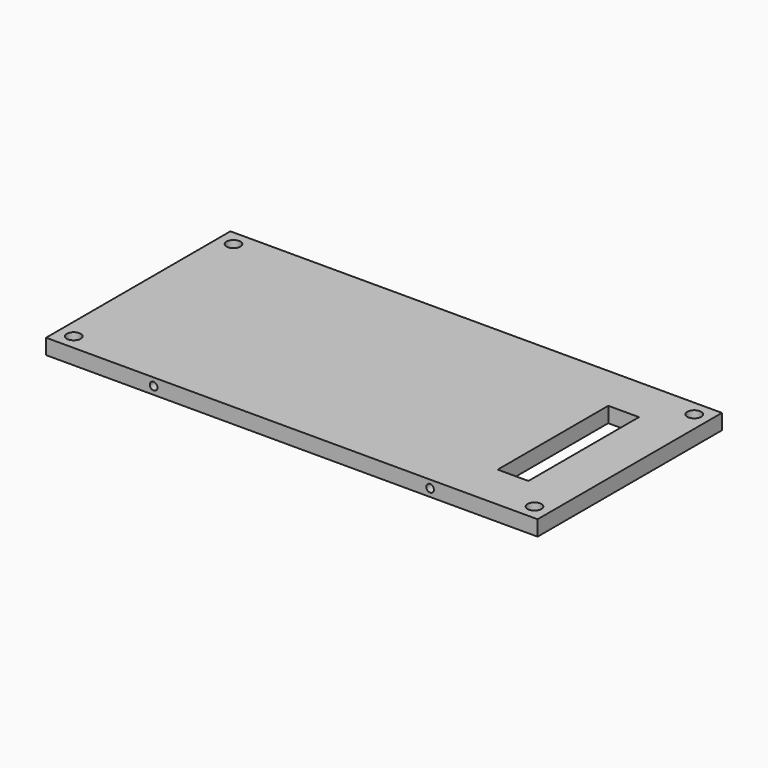
from build123d import *

# Parameters (mm, degrees)
SKETCH_W       = 160
SKETCH_H       = 75
PAD_DEPTH      = 5
SKETCH001_R    = 2.25
HOLE_DEPTH     = 5.001
SKETCH002_R    = 1.25
HOLE001_DEPTH  = 25
HOLE001_TIPS_R = 1.25
SKETCH003_W    = 10
SKETCH003_H    = 45
POCKET_DEPTH   = 5


with BuildPart() as part:
    # Sketch → Pad (new body)
    with BuildSketch(Plane.XY):
        Rectangle(SKETCH_W, SKETCH_H)
    extrude(amount=PAD_DEPTH)

    # Sketch001 (on Face5 of Pad) → Hole (cut, through all)
    with BuildSketch(Plane(origin=(0, 0, 0), x_dir=(1, 0, 0), z_dir=(0, 0, -1))):
        with Locations((-75, 32.5)):
            Circle(SKETCH001_R)
        with Locations((75, 32.5)):
            Circle(SKETCH001_R)
        with Locations((75, -32.5)):
            Circle(SKETCH001_R)
        with Locations((-75, -32.5)):
            Circle(SKETCH001_R)
    extrude(amount=-HOLE_DEPTH, mode=Mode.SUBTRACT)

    # Sketch002 (on Face6 of Hole) → Hole001 (cut)
    with BuildSketch(Plane.XZ.offset(37.5)):
        with Locations((-45, 2.5)):
            Circle(SKETCH002_R)
        with Locations((45, 2.5)):
            Circle(SKETCH002_R)
    extrude(amount=-HOLE001_DEPTH, mode=Mode.SUBTRACT)

    # Hole001 tips → Hole001 tip 1 section 0
    with BuildSketch(Plane.XZ.offset(12.5), mode=Mode.PRIVATE) as hole001_tip_1_s0:
        with Locations((-45, 2.5)):
            Circle(HOLE001_TIPS_R)
    loft([hole001_tip_1_s0.sketch, Vertex(-45, -11.748924, 2.5)], mode=Mode.SUBTRACT)

    # Hole001 tips → Hole001 tip 2 section 0
    with BuildSketch(Plane.XZ.offset(12.5), mode=Mode.PRIVATE) as hole001_tip_2_s0:
        with Locations((45, 2.5)):
            Circle(HOLE001_TIPS_R)
    loft([hole001_tip_2_s0.sketch, Vertex(45, -11.748924, 2.5)], mode=Mode.SUBTRACT)

    # Sketch003 (on Face4 of Hole001) → Pocket (cut)
    with BuildSketch(Plane(origin=(0, 0, 0), x_dir=(1, 0, 0), z_dir=(0, 0, -1))):
        with Locations((60, 0)):
            Rectangle(SKETCH003_W, SKETCH003_H)
    extrude(amount=-POCKET_DEPTH, mode=Mode.SUBTRACT)


solid = part.part
